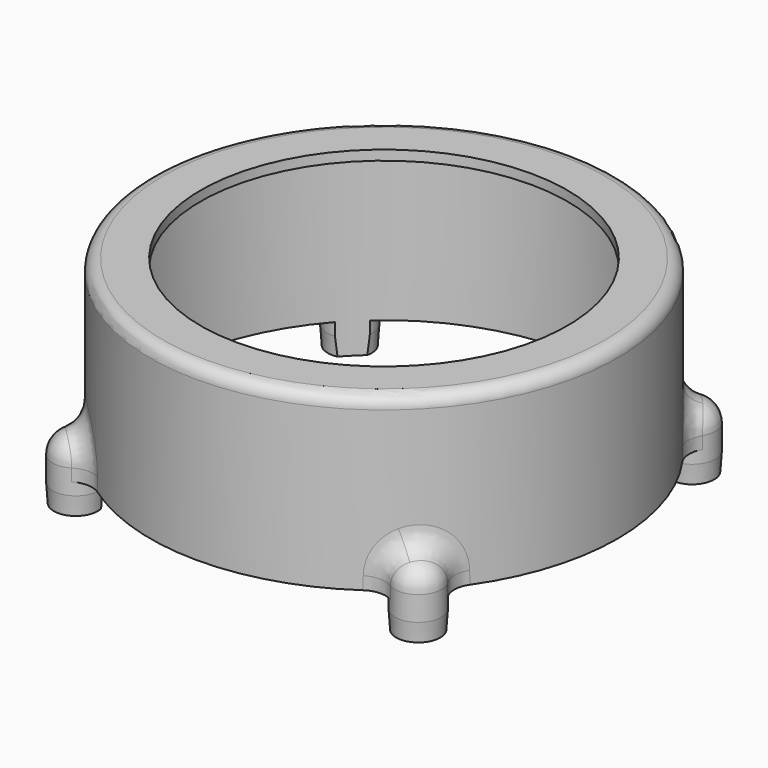
from build123d import *

# Parameters (mm, degrees)
REVOLUTION002_ANGLE   = 90
SKETCH011_R           = 1.9
PAD001_DEPTH          = 2.5
CHAMFER_SIZE2         = 0.1
CHAMFER_SIZE          = 1.5
SKETCH012_R           = 18.3
POCKET006_DEPTH       = 3
FILLET001_R           = 2
POLARPATTERN002_COUNT = 4


with BuildPart() as part:
    # Sketch009 → Revolution002 (revolve)
    with BuildSketch(Plane.XZ):
        with BuildLine():
            Line((-19.1, 0), (-19.1, 13))
            ThreePointArc((-18.1, 14), (-18.807107, 13.707107), (-19.1, 13))
            Line((-18.1, 14), (-15, 14))
            Line((-15, 14), (-15, 13.2))
            Line((-15, 13.2), (-18.3, 13.2))
            Line((-18.3, 13.2), (-18.3, 0))
            Line((-18.3, 0), (-19.1, 0))
        make_face()
    revolve(axis=Axis((0, 0, 0), (0, 0, 1)), revolution_arc=REVOLUTION002_ANGLE)

    # Sketch010 → Revolution003 (revolve)
    with BuildSketch(Plane(origin=(-14, -14, 0), x_dir=(1, 0, 0), z_dir=(0, -1, 0))):
        with BuildLine():
            Line((-1.9, 0), (-1.9, 1))
            ThreePointArc((0, 2.9), (-1.343503, 2.343503), (-1.9, 1))
            Line((0, 2.9), (0, 0))
            Line((0, 0), (-1.9, 0))
        make_face()
    revolve(axis=Axis((-14, -14, 0), (0, 0, 1)))

    # Sketch011 → Pad001 (new body)
    with BuildSketch(Plane(origin=(0, 0, 0), x_dir=(-1, 0, 0), z_dir=(0, 0, -1))):
        with Locations((14, -14)):
            Circle(SKETCH011_R)
    extrude(amount=PAD001_DEPTH)

    # Chamfer
    chamfer_edges = [part.edges().sort_by_distance(p)[0] for p in [
        (-12.1, -14, -2.5),
    ]]
    chamfer_side = part.faces().sort_by_distance((-12.1, -14, -1.25))[0]
    chamfer(chamfer_edges, length=CHAMFER_SIZE, length2=CHAMFER_SIZE2, reference=chamfer_side)

    # Sketch012 → Pocket006 (cut, symmetric)
    with BuildSketch(Plane.XY):
        Circle(SKETCH012_R)
    extrude(amount=POCKET006_DEPTH, both=True, mode=Mode.SUBTRACT)

    # Fillet001
    fillet001_edges = [part.edges().sort_by_distance(p)[0] for p in [
        (-12.224235, -14.675765, 0.5),
    ]]
    fillet(fillet001_edges, radius=FILLET001_R)

    # PolarPattern002: part ×4 about axis
    polarpattern002_axis = Axis((0, 0, 0), (0, 0, 1))


with BuildPart() as part_1:
    add(part.part)
    for i in range(1, POLARPATTERN002_COUNT):
        add(part.part.rotate(polarpattern002_axis, i * 360 / POLARPATTERN002_COUNT))


with BuildPart() as part_2:
    # Body002 placement: moved
    add(part_1.part.moved(Location((0, 0, 21))))


solid = part_2.part
